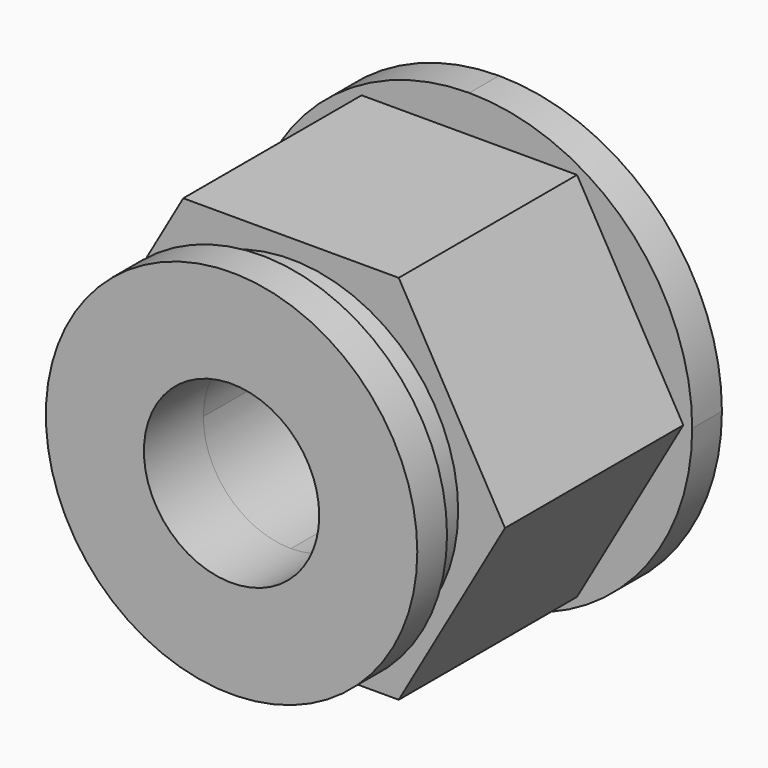
from build123d import *

# Parameters (mm, degrees)
F1_DEPTH = 1.27
F2_DEPTH = 8.89
F3_R     = 5.715
F3_R_2   = 2.9972
F4_DEPTH = 1.27
F5_R     = 6.35
F5_R_2   = 2.9972
F6_DEPTH = 1.27


with BuildPart() as f1:
    # F0 (on Front) → F1 (new body)
    with BuildSketch(Plane.XZ):
        with BuildLine():
            ThreePointArc((7.62, 0), (5.388154, 5.388154), (0, 7.62))
            Line((0, 7.62), (0, 6.35))
            Line((0, 6.35), (3.683, 6.35))
            Line((3.683, 6.35), (7.315638, 0))
            Line((7.315638, 0), (7.62, 0))
        make_face()
        with BuildLine():
            Line((0, 6.35), (0, 7.62))
            ThreePointArc((0, 7.62), (-5.388154, 5.388154), (-7.62, 0))
            Line((-7.62, 0), (-7.315638, 0))
            Line((-7.315638, 0), (-3.683, 6.35))
            Line((-3.683, 6.35), (0, 6.35))
        make_face()
        with BuildLine():
            ThreePointArc((0, -7.62), (5.388154, -5.388154), (7.62, 0))
            Line((7.62, 0), (7.315638, 0))
            Line((7.315638, 0), (3.683, -6.35))
            Line((3.683, -6.35), (0, -6.35))
            Line((0, -6.35), (0, -7.62))
        make_face()
        with BuildLine():
            Line((-7.315638, 0), (-7.62, 0))
            ThreePointArc((-7.62, 0), (-5.388154, -5.388154), (0, -7.62))
            Line((0, -7.62), (0, -6.35))
            Line((0, -6.35), (-3.683, -6.35))
            Line((-3.683, -6.35), (-7.315638, 0))
        make_face()
    extrude(amount=F1_DEPTH)

    # F0 (on Front) → F2 (join)
    with BuildSketch(Plane.XZ):
        with BuildLine():
            Line((3.683, 6.35), (0, 6.35))
            Line((0, 6.35), (0, 2.9972))
            ThreePointArc((0, 2.9972), (2.11934, 2.11934), (2.9972, 0))
            Line((2.9972, 0), (7.315638, 0))
            Line((7.315638, 0), (3.683, 6.35))
        make_face()
        with BuildLine():
            Line((0, 2.9972), (0, 6.35))
            Line((0, 6.35), (-3.683, 6.35))
            Line((-3.683, 6.35), (-7.315638, 0))
            Line((-7.315638, 0), (-2.9972, 0))
            ThreePointArc((-2.9972, 0), (-2.11934, 2.11934), (0, 2.9972))
        make_face()
        with BuildLine():
            Line((-2.9972, 0), (-7.315638, 0))
            Line((-7.315638, 0), (-3.683, -6.35))
            Line((-3.683, -6.35), (0, -6.35))
            Line((0, -6.35), (0, -2.9972))
            ThreePointArc((0, -2.9972), (-2.11934, -2.11934), (-2.9972, 0))
        make_face()
        with BuildLine():
            Line((3.683, -6.35), (7.315638, 0))
            Line((7.315638, 0), (2.9972, 0))
            ThreePointArc((2.9972, 0), (2.11934, -2.11934), (0, -2.9972))
            Line((0, -2.9972), (0, -6.35))
            Line((0, -6.35), (3.683, -6.35))
        make_face()
    extrude(amount=F2_DEPTH)

    # F3 (on face) → F4 (join)
    with BuildSketch(Plane.XZ.offset(8.89)):
        Circle(F3_R)
        Circle(F3_R_2, mode=Mode.SUBTRACT)
    extrude(amount=F4_DEPTH)

    # F5 (on face) → F6 (join)
    with BuildSketch(Plane.XZ.offset(10.16)):
        Circle(F5_R)
        Circle(F5_R_2, mode=Mode.SUBTRACT)
    extrude(amount=F6_DEPTH)


solid = f1.part
